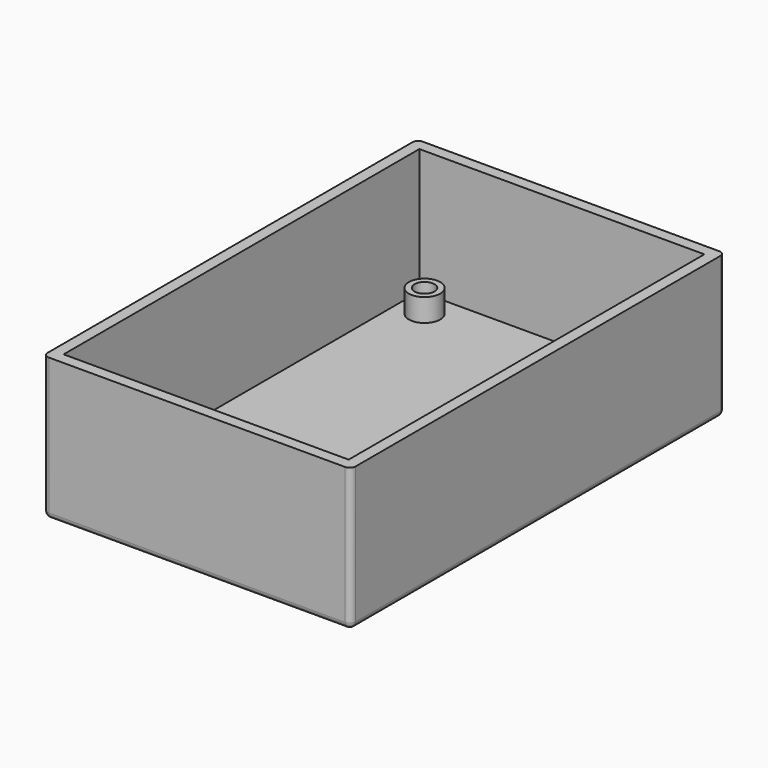
from build123d import *

# Parameters (mm, degrees)
SKETCH_W        = 54
SKETCH_H        = 82
PAD_DEPTH       = 25
SKETCH001_W     = 50
SKETCH001_H     = 78
POCKET_DEPTH    = 22
SKETCH002_R     = 2.75
PAD001_DEPTH    = 4
SKETCH003_R     = 1.75
POCKET001_DEPTH = 23
CHAMFER_SIZE    = 1.5
FILLET_R        = 1


with BuildPart() as part:
    # Sketch → Pad (new body)
    with BuildSketch(Plane.XY):
        Rectangle(SKETCH_W, SKETCH_H)
    extrude(amount=PAD_DEPTH)

    # Sketch001 (on Face6 of Pad) → Pocket (cut)
    with BuildSketch(Plane.XY.offset(25)):
        Rectangle(SKETCH001_W, SKETCH001_H)
    extrude(amount=-POCKET_DEPTH, mode=Mode.SUBTRACT)

    # Sketch002 (on Face11 of Pocket) → Pad001 (join)
    with BuildSketch(Plane.XY.offset(3)):
        with Locations((-20.32, 34.29)):
            Circle(SKETCH002_R)
        with Locations((20.32, 34.29)):
            Circle(SKETCH002_R)
        with Locations((-20.32, -34.29)):
            Circle(SKETCH002_R)
        with Locations((20.32, -34.29)):
            Circle(SKETCH002_R)
    extrude(amount=PAD001_DEPTH)

    # Sketch003 (on Face4 of Pad001) → Pocket001 (cut)
    with BuildSketch(Plane(origin=(0, 0, 0), x_dir=(1, 0, 0), z_dir=(0, 0, -1))):
        with Locations((20.32, -34.29)):
            Circle(SKETCH003_R)
        with Locations((-20.32, -34.29)):
            Circle(SKETCH003_R)
        with Locations((-20.32, 34.29)):
            Circle(SKETCH003_R)
        with Locations((20.32, 34.29)):
            Circle(SKETCH003_R)
    extrude(amount=-POCKET001_DEPTH, mode=Mode.SUBTRACT)

    # Chamfer
    chamfer_edges = [part.edges().sort_by_distance(p)[0] for p in [
        (18.57, 34.29, 0),
        (-22.07, 34.29, 0),
        (-22.07, -34.29, 0),
        (18.57, -34.29, 0),
    ]]
    chamfer(chamfer_edges, length=CHAMFER_SIZE)

    # Fillet
    fillet_edges = [part.edges().sort_by_distance(p)[0] for p in [
        (0, 41, 0),
        (27, 41, 12.5),
        (27, 0, 0),
        (0, -41, 0),
        (-27, 0, 0),
        (-27, 41, 12.5),
        (27, -41, 12.5),
        (-27, -41, 12.5),
    ]]
    fillet(fillet_edges, radius=FILLET_R)


solid = part.part
